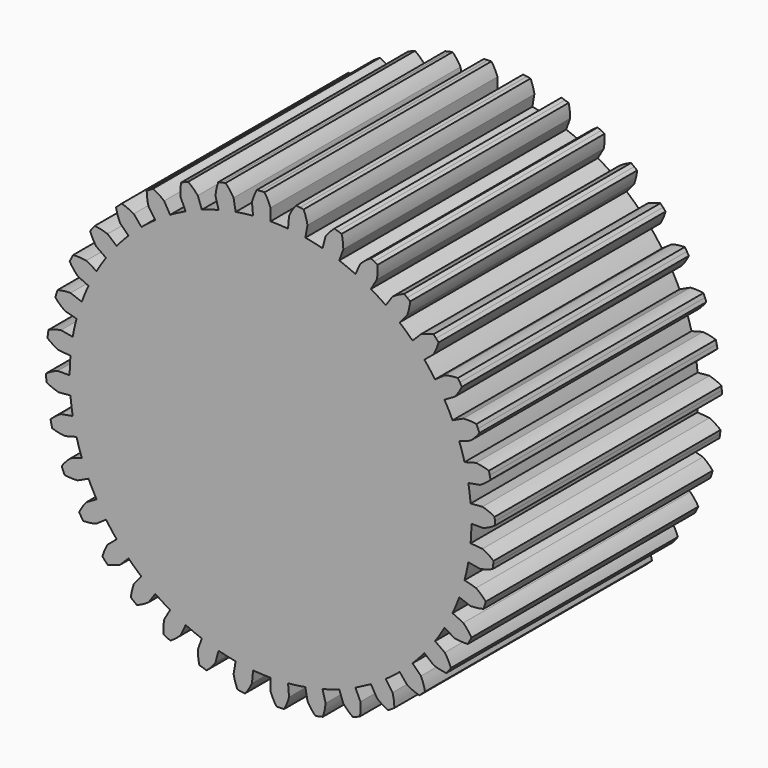
from build123d import *

# Parameters (mm, degrees)
F1_DEPTH = 25.4


with BuildPart() as f1:
    # F0 (on Front) → F1 (new body)
    with BuildSketch(Plane.XZ):
        with BuildLine():
            ThreePointArc((0, 19.05), (-0.235859, 19.590102), (-0.536621, 20.096937))
            ThreePointArc((-0.536621, 20.096937), (-0.7068, 20.091672), (-0.876929, 20.084965))
            ThreePointArc((-0.876929, 20.084965), (-1.046994, 20.076818), (-1.216984, 20.067232))
            ThreePointArc((-1.216984, 20.067232), (-1.472428, 19.536112), (-1.660317, 18.977509))
            Line((-1.660317, 18.977509), (-1.567339, 17.914768))
            ThreePointArc((-1.567339, 17.914768), (-2.347279, 17.829351), (-3.12275, 17.709995))
            Line((-3.12275, 17.709995), (-3.307998, 18.760588))
            ThreePointArc((-3.307998, 18.760588), (-3.634061, 19.251528), (-4.018265, 19.698436))
            ThreePointArc((-4.018265, 19.698436), (-4.184944, 19.663699), (-4.351324, 19.627553))
            ThreePointArc((-4.351324, 19.627553), (-4.517391, 19.589998), (-4.683134, 19.551038))
            ThreePointArc((-4.683134, 19.551038), (-4.842469, 18.98363), (-4.930503, 18.400887))
            Line((-4.930503, 18.400887), (-4.654395, 17.370437))
            ThreePointArc((-4.654395, 17.370437), (-5.407653, 17.150883), (-6.150617, 16.89868))
            Line((-6.150617, 16.89868), (-6.515484, 17.901144))
            ThreePointArc((-6.515484, 17.901144), (-6.921844, 18.328006), (-7.377816, 18.701408))
            ThreePointArc((-7.377816, 18.701408), (-7.535931, 18.638256), (-7.693506, 18.573767))
            ThreePointArc((-7.693506, 18.573767), (-7.850529, 18.507945), (-8.006989, 18.440796))
            ThreePointArc((-8.006989, 18.440796), (-8.065374, 17.85434), (-8.050878, 17.265163))
            Line((-8.050878, 17.265163), (-7.600029, 16.298314))
            ThreePointArc((-7.600029, 16.298314), (-8.251382, 15.978429), (-8.889298, 15.632526))
            ThreePointArc((-8.889298, 15.632526), (-8.940497, 15.603301), (-8.9916, 15.573908))
            Line((-8.9916, 15.573908), (-9.525, 16.497784))
            ThreePointArc((-9.525, 16.497784), (-9.999311, 16.847596), (-10.513196, 17.136147))
            ThreePointArc((-10.513196, 17.136147), (-10.657943, 17.046498), (-10.801925, 16.955626))
            ThreePointArc((-10.801925, 16.955626), (-10.945133, 16.863538), (-11.087555, 16.77024))
            ThreePointArc((-11.087555, 16.77024), (-11.043216, 16.182555), (-10.926631, 15.604846))
            Line((-10.926631, 15.604846), (-10.31474, 14.730975))
            ThreePointArc((-10.31474, 14.730975), (-10.947479, 14.267032), (-11.559378, 13.77593))
            Line((-11.559378, 13.77593), (-12.245104, 14.593147))
            ThreePointArc((-12.245104, 14.593147), (-12.772953, 14.855281), (-13.329138, 15.050213))
            ThreePointArc((-13.329138, 15.050213), (-13.456118, 14.936791), (-13.582133, 14.822297))
            ThreePointArc((-13.582133, 14.822297), (-13.707174, 14.706741), (-13.831232, 14.590129))
            ThreePointArc((-13.831232, 14.590129), (-13.685516, 14.019071), (-13.470384, 13.470384))
            Line((-13.470384, 13.470384), (-12.716043, 12.716043))
            ThreePointArc((-12.716043, 12.716043), (-13.258606, 12.149274), (-13.77593, 11.559378))
            Line((-13.77593, 11.559378), (-14.593147, 12.245104))
            ThreePointArc((-14.593147, 12.245104), (-15.158496, 12.411596), (-15.74008, 12.506986))
            ThreePointArc((-15.74008, 12.506986), (-15.845436, 12.373237), (-15.949655, 12.238601))
            ThreePointArc((-15.949655, 12.238601), (-16.05273, 12.103086), (-16.154654, 11.966704))
            ThreePointArc((-16.154654, 11.966704), (-15.911989, 11.429625), (-15.604846, 10.926631))
            Line((-15.604846, 10.926631), (-14.730975, 10.31474))
            ThreePointArc((-14.730975, 10.31474), (-15.166877, 9.662366), (-15.573908, 8.9916))
            Line((-15.573908, 8.9916), (-16.497784, 9.525))
            ThreePointArc((-16.497784, 9.525), (-17.083455, 9.590791), (-17.672769, 9.583741))
            ThreePointArc((-17.672769, 9.583741), (-17.753298, 9.433729), (-17.832554, 9.28304))
            ThreePointArc((-17.832554, 9.28304), (-17.910532, 9.131686), (-17.987225, 8.979677))
            ThreePointArc((-17.987225, 8.979677), (-17.654984, 8.492896), (-17.265163, 8.050878))
            Line((-17.265163, 8.050878), (-16.298314, 7.600029))
            ThreePointArc((-16.298314, 7.600029), (-16.61431, 6.881873), (-16.89868, 6.150617))
            Line((-16.89868, 6.150617), (-17.901144, 6.515484))
            ThreePointArc((-17.901144, 6.515484), (-18.489343, 6.478574), (-19.068479, 6.369298))
            ThreePointArc((-19.068479, 6.369298), (-19.121736, 6.207581), (-19.173621, 6.045419))
            ThreePointArc((-19.173621, 6.045419), (-19.224131, 5.882824), (-19.273263, 5.719806))
            ThreePointArc((-19.273263, 5.719806), (-18.861541, 5.298114), (-18.400887, 4.930503))
            Line((-18.400887, 4.930503), (-17.370437, 4.654395))
            ThreePointArc((-17.370437, 4.654395), (-17.556926, 3.892277), (-17.709995, 3.12275))
            Line((-17.709995, 3.12275), (-18.760588, 3.307998))
            ThreePointArc((-18.760588, 3.307998), (-19.333441, 3.16951), (-19.884803, 2.961328))
            ThreePointArc((-19.884803, 2.961328), (-19.909169, 2.79282), (-19.932107, 2.624112))
            ThreePointArc((-19.932107, 2.624112), (-19.953615, 2.455215), (-19.973692, 2.286143))
            ThreePointArc((-19.973692, 2.286143), (-19.494999, 1.942351), (-18.977509, 1.660317))
            Line((-18.977509, 1.660317), (-17.914768, 1.567339))
            ThreePointArc((-17.914768, 1.567339), (-17.966084, 0.784416), (-17.9832, 0))
            Line((-17.9832, 0), (-19.05, 0))
            ThreePointArc((-19.05, 0), (-19.590102, -0.235859), (-20.096937, -0.536621))
            ThreePointArc((-20.096937, -0.536621), (-20.091672, -0.7068), (-20.084965, -0.876929))
            ThreePointArc((-20.084965, -0.876929), (-20.076818, -1.046994), (-20.067232, -1.216984))
            ThreePointArc((-20.067232, -1.216984), (-19.536112, -1.472428), (-18.977509, -1.660317))
            Line((-18.977509, -1.660317), (-17.914768, -1.567339))
            ThreePointArc((-17.914768, -1.567339), (-17.829351, -2.347279), (-17.709995, -3.12275))
            Line((-17.709995, -3.12275), (-18.760588, -3.307998))
            ThreePointArc((-18.760588, -3.307998), (-19.251528, -3.634061), (-19.698436, -4.018265))
            ThreePointArc((-19.698436, -4.018265), (-19.663699, -4.184944), (-19.627553, -4.351324))
            ThreePointArc((-19.627553, -4.351324), (-19.589998, -4.517391), (-19.551038, -4.683134))
            ThreePointArc((-19.551038, -4.683134), (-18.98363, -4.842469), (-18.400887, -4.930503))
            Line((-18.400887, -4.930503), (-17.370437, -4.654395))
            ThreePointArc((-17.370437, -4.654395), (-17.150883, -5.407653), (-16.89868, -6.150617))
            Line((-16.89868, -6.150617), (-17.901144, -6.515484))
            ThreePointArc((-17.901144, -6.515484), (-18.328006, -6.921844), (-18.701408, -7.377816))
            ThreePointArc((-18.701408, -7.377816), (-18.638256, -7.535931), (-18.573767, -7.693506))
            ThreePointArc((-18.573767, -7.693506), (-18.507945, -7.850529), (-18.440796, -8.006989))
            ThreePointArc((-18.440796, -8.006989), (-17.85434, -8.065374), (-17.265163, -8.050878))
            Line((-17.265163, -8.050878), (-16.298314, -7.600029))
            ThreePointArc((-16.298314, -7.600029), (-15.951293, -8.303718), (-15.573908, -8.9916))
            Line((-15.573908, -8.9916), (-16.497784, -9.525))
            ThreePointArc((-16.497784, -9.525), (-16.847596, -9.999311), (-17.136147, -10.513196))
            ThreePointArc((-17.136147, -10.513196), (-17.046498, -10.657943), (-16.955626, -10.801925))
            ThreePointArc((-16.955626, -10.801925), (-16.863538, -10.945133), (-16.77024, -11.087555))
            ThreePointArc((-16.77024, -11.087555), (-16.182555, -11.043216), (-15.604846, -10.926631))
            Line((-15.604846, -10.926631), (-14.730975, -10.31474))
            ThreePointArc((-14.730975, -10.31474), (-14.267032, -10.947479), (-13.77593, -11.559378))
            Line((-13.77593, -11.559378), (-14.593147, -12.245104))
            ThreePointArc((-14.593147, -12.245104), (-14.855281, -12.772953), (-15.050213, -13.329138))
            ThreePointArc((-15.050213, -13.329138), (-14.936791, -13.456118), (-14.822297, -13.582133))
            ThreePointArc((-14.822297, -13.582133), (-14.706741, -13.707174), (-14.590129, -13.831232))
            ThreePointArc((-14.590129, -13.831232), (-14.019071, -13.685516), (-13.470384, -13.470384))
            Line((-13.470384, -13.470384), (-12.716043, -12.716043))
            ThreePointArc((-12.716043, -12.716043), (-12.149274, -13.258606), (-11.559378, -13.77593))
            Line((-11.559378, -13.77593), (-12.245104, -14.593147))
            ThreePointArc((-12.245104, -14.593147), (-12.411596, -15.158496), (-12.506986, -15.74008))
            ThreePointArc((-12.506986, -15.74008), (-12.373237, -15.845436), (-12.238601, -15.949655))
            ThreePointArc((-12.238601, -15.949655), (-12.103086, -16.05273), (-11.966704, -16.154654))
            ThreePointArc((-11.966704, -16.154654), (-11.429625, -15.911989), (-10.926631, -15.604846))
            Line((-10.926631, -15.604846), (-10.31474, -14.730975))
            ThreePointArc((-10.31474, -14.730975), (-9.662366, -15.166877), (-8.9916, -15.573908))
            Line((-8.9916, -15.573908), (-9.525, -16.497784))
            ThreePointArc((-9.525, -16.497784), (-9.590791, -17.083455), (-9.583741, -17.672769))
            ThreePointArc((-9.583741, -17.672769), (-9.433729, -17.753298), (-9.28304, -17.832554))
            ThreePointArc((-9.28304, -17.832554), (-9.131686, -17.910532), (-8.979677, -17.987225))
            ThreePointArc((-8.979677, -17.987225), (-8.492896, -17.654984), (-8.050878, -17.265163))
            Line((-8.050878, -17.265163), (-7.600029, -16.298314))
            ThreePointArc((-7.600029, -16.298314), (-6.881873, -16.61431), (-6.150617, -16.89868))
            Line((-6.150617, -16.89868), (-6.515484, -17.901144))
            ThreePointArc((-6.515484, -17.901144), (-6.478574, -18.489343), (-6.369298, -19.068479))
            ThreePointArc((-6.369298, -19.068479), (-6.207581, -19.121736), (-6.045419, -19.173621))
            ThreePointArc((-6.045419, -19.173621), (-5.882824, -19.224131), (-5.719806, -19.273263))
            ThreePointArc((-5.719806, -19.273263), (-5.298114, -18.861541), (-4.930503, -18.400887))
            Line((-4.930503, -18.400887), (-4.654395, -17.370437))
            ThreePointArc((-4.654395, -17.370437), (-3.892277, -17.556926), (-3.12275, -17.709995))
            Line((-3.12275, -17.709995), (-3.307998, -18.760588))
            ThreePointArc((-3.307998, -18.760588), (-3.16951, -19.333441), (-2.961328, -19.884803))
            ThreePointArc((-2.961328, -19.884803), (-2.79282, -19.909169), (-2.624112, -19.932107))
            ThreePointArc((-2.624112, -19.932107), (-2.455215, -19.953615), (-2.286143, -19.973692))
            ThreePointArc((-2.286143, -19.973692), (-1.942351, -19.494999), (-1.660317, -18.977509))
            Line((-1.660317, -18.977509), (-1.567339, -17.914768))
            ThreePointArc((-1.567339, -17.914768), (-0.784416, -17.966084), (0, -17.9832))
            Line((0, -17.9832), (0, -19.05))
            ThreePointArc((0, -19.05), (0.235859, -19.590102), (0.536621, -20.096937))
            ThreePointArc((0.536621, -20.096937), (0.7068, -20.091672), (0.876929, -20.084965))
            ThreePointArc((0.876929, -20.084965), (1.046994, -20.076818), (1.216984, -20.067232))
            ThreePointArc((1.216984, -20.067232), (1.472428, -19.536112), (1.660317, -18.977509))
            Line((1.660317, -18.977509), (1.567339, -17.914768))
            ThreePointArc((1.567339, -17.914768), (2.347279, -17.829351), (3.12275, -17.709995))
            Line((3.12275, -17.709995), (3.307998, -18.760588))
            ThreePointArc((3.307998, -18.760588), (3.634061, -19.251528), (4.018265, -19.698436))
            ThreePointArc((4.018265, -19.698436), (4.184944, -19.663699), (4.351324, -19.627553))
            ThreePointArc((4.351324, -19.627553), (4.517391, -19.589998), (4.683134, -19.551038))
            ThreePointArc((4.683134, -19.551038), (4.842469, -18.98363), (4.930503, -18.400887))
            Line((4.930503, -18.400887), (4.654395, -17.370437))
            ThreePointArc((4.654395, -17.370437), (5.407653, -17.150883), (6.150617, -16.89868))
            Line((6.150617, -16.89868), (6.515484, -17.901144))
            ThreePointArc((6.515484, -17.901144), (6.921844, -18.328006), (7.377816, -18.701408))
            ThreePointArc((7.377816, -18.701408), (7.535931, -18.638256), (7.693506, -18.573767))
            ThreePointArc((7.693506, -18.573767), (7.850529, -18.507945), (8.006989, -18.440796))
            ThreePointArc((8.006989, -18.440796), (8.065374, -17.85434), (8.050878, -17.265163))
            Line((8.050878, -17.265163), (7.600029, -16.298314))
            Line((7.600029, -16.298314), (8.9916, -15.573908))
            Line((8.9916, -15.573908), (9.525, -16.497784))
            ThreePointArc((9.525, -16.497784), (9.999311, -16.847596), (10.513196, -17.136147))
            ThreePointArc((10.513196, -17.136147), (10.657943, -17.046498), (10.801925, -16.955626))
            ThreePointArc((10.801925, -16.955626), (10.945133, -16.863538), (11.087555, -16.77024))
            ThreePointArc((11.087555, -16.77024), (11.043216, -16.182555), (10.926631, -15.604846))
            Line((10.926631, -15.604846), (10.31474, -14.730975))
            ThreePointArc((10.31474, -14.730975), (10.947479, -14.267032), (11.559378, -13.77593))
            Line((11.559378, -13.77593), (12.245104, -14.593147))
            ThreePointArc((12.245104, -14.593147), (12.772953, -14.855281), (13.329138, -15.050213))
            ThreePointArc((13.329138, -15.050213), (13.456118, -14.936791), (13.582133, -14.822297))
            ThreePointArc((13.582133, -14.822297), (13.707174, -14.706741), (13.831232, -14.590129))
            ThreePointArc((13.831232, -14.590129), (13.685516, -14.019071), (13.470384, -13.470384))
            Line((13.470384, -13.470384), (12.716043, -12.716043))
            ThreePointArc((12.716043, -12.716043), (13.258606, -12.149274), (13.77593, -11.559378))
            Line((13.77593, -11.559378), (14.593147, -12.245104))
            ThreePointArc((14.593147, -12.245104), (15.158496, -12.411596), (15.74008, -12.506986))
            ThreePointArc((15.74008, -12.506986), (15.845436, -12.373237), (15.949655, -12.238601))
            ThreePointArc((15.949655, -12.238601), (16.05273, -12.103086), (16.154654, -11.966704))
            ThreePointArc((16.154654, -11.966704), (15.911989, -11.429625), (15.604846, -10.926631))
            Line((15.604846, -10.926631), (14.730975, -10.31474))
            ThreePointArc((14.730975, -10.31474), (15.166877, -9.662366), (15.573908, -8.9916))
            Line((15.573908, -8.9916), (16.497784, -9.525))
            ThreePointArc((16.497784, -9.525), (17.083455, -9.590791), (17.672769, -9.583741))
            ThreePointArc((17.672769, -9.583741), (17.753298, -9.433729), (17.832554, -9.28304))
            ThreePointArc((17.832554, -9.28304), (17.910532, -9.131686), (17.987225, -8.979677))
            ThreePointArc((17.987225, -8.979677), (17.654984, -8.492896), (17.265163, -8.050878))
            Line((17.265163, -8.050878), (16.298314, -7.600029))
            ThreePointArc((16.298314, -7.600029), (16.61431, -6.881873), (16.89868, -6.150617))
            Line((16.89868, -6.150617), (17.901144, -6.515484))
            ThreePointArc((17.901144, -6.515484), (18.489343, -6.478574), (19.068479, -6.369298))
            ThreePointArc((19.068479, -6.369298), (19.121736, -6.207581), (19.173621, -6.045419))
            ThreePointArc((19.173621, -6.045419), (19.224131, -5.882824), (19.273263, -5.719806))
            ThreePointArc((19.273263, -5.719806), (18.861541, -5.298114), (18.400887, -4.930503))
            Line((18.400887, -4.930503), (17.370437, -4.654395))
            ThreePointArc((17.370437, -4.654395), (17.556926, -3.892277), (17.709995, -3.12275))
            Line((17.709995, -3.12275), (18.760588, -3.307998))
            ThreePointArc((18.760588, -3.307998), (19.333441, -3.16951), (19.884803, -2.961328))
            ThreePointArc((19.884803, -2.961328), (19.909169, -2.79282), (19.932107, -2.624112))
            ThreePointArc((19.932107, -2.624112), (19.953615, -2.455215), (19.973692, -2.286143))
            ThreePointArc((19.973692, -2.286143), (19.494999, -1.942351), (18.977509, -1.660317))
            Line((18.977509, -1.660317), (17.914768, -1.567339))
            ThreePointArc((17.914768, -1.567339), (17.966084, -0.784416), (17.9832, 0))
            Line((17.9832, 0), (19.05, 0))
            ThreePointArc((19.05, 0), (19.590102, 0.235859), (20.096937, 0.536621))
            ThreePointArc((20.096937, 0.536621), (20.091672, 0.7068), (20.084965, 0.876929))
            ThreePointArc((20.084965, 0.876929), (20.076818, 1.046994), (20.067232, 1.216984))
            ThreePointArc((20.067232, 1.216984), (19.536112, 1.472428), (18.977509, 1.660317))
            Line((18.977509, 1.660317), (17.914768, 1.567339))
            ThreePointArc((17.914768, 1.567339), (17.829351, 2.347279), (17.709995, 3.12275))
            Line((17.709995, 3.12275), (18.760588, 3.307998))
            ThreePointArc((18.760588, 3.307998), (19.251528, 3.634061), (19.698436, 4.018265))
            ThreePointArc((19.698436, 4.018265), (19.663699, 4.184944), (19.627553, 4.351324))
            ThreePointArc((19.627553, 4.351324), (19.589998, 4.517391), (19.551038, 4.683134))
            ThreePointArc((19.551038, 4.683134), (18.98363, 4.842469), (18.400887, 4.930503))
            Line((18.400887, 4.930503), (17.370437, 4.654395))
            ThreePointArc((17.370437, 4.654395), (17.150883, 5.407653), (16.89868, 6.150617))
            Line((16.89868, 6.150617), (17.901144, 6.515484))
            ThreePointArc((17.901144, 6.515484), (18.328006, 6.921844), (18.701408, 7.377816))
            ThreePointArc((18.701408, 7.377816), (18.638256, 7.535931), (18.573767, 7.693506))
            ThreePointArc((18.573767, 7.693506), (18.507945, 7.850529), (18.440796, 8.006989))
            ThreePointArc((18.440796, 8.006989), (17.85434, 8.065374), (17.265163, 8.050878))
            Line((17.265163, 8.050878), (16.298314, 7.600029))
            ThreePointArc((16.298314, 7.600029), (15.951293, 8.303718), (15.573908, 8.9916))
            Line((15.573908, 8.9916), (16.497784, 9.525))
            ThreePointArc((16.497784, 9.525), (16.847596, 9.999311), (17.136147, 10.513196))
            ThreePointArc((17.136147, 10.513196), (17.046498, 10.657943), (16.955626, 10.801925))
            ThreePointArc((16.955626, 10.801925), (16.863538, 10.945133), (16.77024, 11.087555))
            ThreePointArc((16.77024, 11.087555), (16.182555, 11.043216), (15.604846, 10.926631))
            Line((15.604846, 10.926631), (14.730975, 10.31474))
            ThreePointArc((14.730975, 10.31474), (14.267032, 10.947479), (13.77593, 11.559378))
            Line((13.77593, 11.559378), (14.593147, 12.245104))
            ThreePointArc((14.593147, 12.245104), (14.855281, 12.772953), (15.050213, 13.329138))
            ThreePointArc((15.050213, 13.329138), (14.936791, 13.456118), (14.822297, 13.582133))
            ThreePointArc((14.822297, 13.582133), (14.706741, 13.707174), (14.590129, 13.831232))
            ThreePointArc((14.590129, 13.831232), (14.019071, 13.685516), (13.470384, 13.470384))
            Line((13.470384, 13.470384), (12.716043, 12.716043))
            ThreePointArc((12.716043, 12.716043), (12.149274, 13.258606), (11.559378, 13.77593))
            Line((11.559378, 13.77593), (12.245104, 14.593147))
            ThreePointArc((12.245104, 14.593147), (12.411596, 15.158496), (12.506986, 15.74008))
            ThreePointArc((12.506986, 15.74008), (12.373237, 15.845436), (12.238601, 15.949655))
            ThreePointArc((12.238601, 15.949655), (12.103086, 16.05273), (11.966704, 16.154654))
            ThreePointArc((11.966704, 16.154654), (11.429625, 15.911989), (10.926631, 15.604846))
            Line((10.926631, 15.604846), (10.31474, 14.730975))
            ThreePointArc((10.31474, 14.730975), (9.662366, 15.166877), (8.9916, 15.573908))
            Line((8.9916, 15.573908), (9.525, 16.497784))
            ThreePointArc((9.525, 16.497784), (9.590791, 17.083455), (9.583741, 17.672769))
            ThreePointArc((9.583741, 17.672769), (9.433729, 17.753298), (9.28304, 17.832554))
            ThreePointArc((9.28304, 17.832554), (9.131686, 17.910532), (8.979677, 17.987225))
            ThreePointArc((8.979677, 17.987225), (8.492896, 17.654984), (8.050878, 17.265163))
            Line((8.050878, 17.265163), (7.600029, 16.298314))
            ThreePointArc((7.600029, 16.298314), (6.881873, 16.61431), (6.150617, 16.89868))
            Line((6.150617, 16.89868), (6.515484, 17.901144))
            ThreePointArc((6.515484, 17.901144), (6.478574, 18.489343), (6.369298, 19.068479))
            ThreePointArc((6.369298, 19.068479), (6.207581, 19.121736), (6.045419, 19.173621))
            ThreePointArc((6.045419, 19.173621), (5.882824, 19.224131), (5.719806, 19.273263))
            ThreePointArc((5.719806, 19.273263), (5.298114, 18.861541), (4.930503, 18.400887))
            Line((4.930503, 18.400887), (4.654395, 17.370437))
            ThreePointArc((4.654395, 17.370437), (4.564287, 17.394331), (4.474058, 17.417758))
            ThreePointArc((4.474058, 17.417758), (3.801213, 17.576867), (3.12275, 17.709995))
            Line((3.12275, 17.709995), (3.307998, 18.760588))
            ThreePointArc((3.307998, 18.760588), (3.16951, 19.333441), (2.961328, 19.884803))
            ThreePointArc((2.961328, 19.884803), (2.79282, 19.909169), (2.624112, 19.932107))
            ThreePointArc((2.624112, 19.932107), (2.455215, 19.953615), (2.286143, 19.973692))
            ThreePointArc((2.286143, 19.973692), (1.942351, 19.494999), (1.660317, 18.977509))
            Line((1.660317, 18.977509), (1.567339, 17.914768))
            ThreePointArc((1.567339, 17.914768), (0.784416, 17.966084), (0, 17.9832))
            Line((0, 17.9832), (0, 19.05))
        make_face()
        with BuildLine():
            ThreePointArc((-4.474058, 17.417758), (-4.492071, 17.413121), (-4.510079, 17.408465))
            Line((-4.510079, 17.408465), (-4.475286, 17.421129))
            ThreePointArc((-4.475286, 17.421129), (-4.474672, 17.419443), (-4.474058, 17.417758))
        make_face(mode=Mode.SUBTRACT)
    extrude(amount=F1_DEPTH)


solid = f1.part
